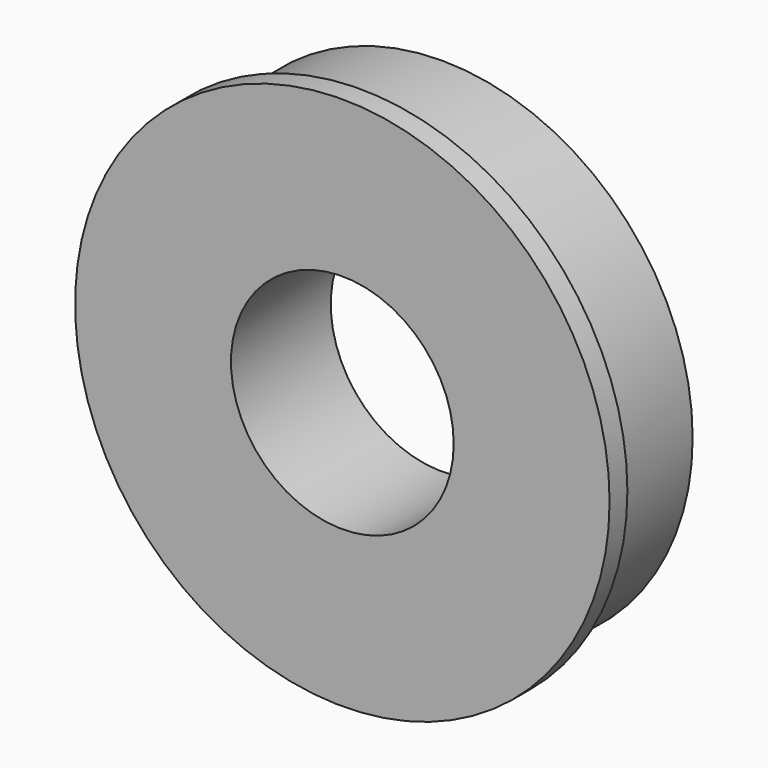
from build123d import *

# Parameters (mm, degrees)
F0_R     = 14.2875
F0_R_2   = 6.35
F1_DEPTH = 7.112
F2_R     = 15.24
F3_DEPTH = 1.27
F4_R     = 6.35
F5_DEPTH = 25.4


with BuildPart() as f1:
    # F0 (on Front) → F1 (new body)
    with BuildSketch(Plane.XZ):
        with Locations((-66.254035, 44.382535)):
            Circle(F0_R)
        with Locations((-66.254035, 44.382535)):
            Circle(F0_R_2, mode=Mode.SUBTRACT)
    extrude(amount=F1_DEPTH)

    # F2 (on face) → F3 (join)
    with BuildSketch(Plane.XZ.offset(7.112)):
        with Locations((-66.254035, 44.382535)):
            Circle(F2_R)
    extrude(amount=-F3_DEPTH)

    # F4 (on face) → F5 (cut)
    with BuildSketch(Plane.XZ.offset(7.112)):
        with Locations((-66.254035, 44.382535)):
            Circle(F4_R)
    extrude(amount=-F5_DEPTH, mode=Mode.SUBTRACT)


solid = f1.part
